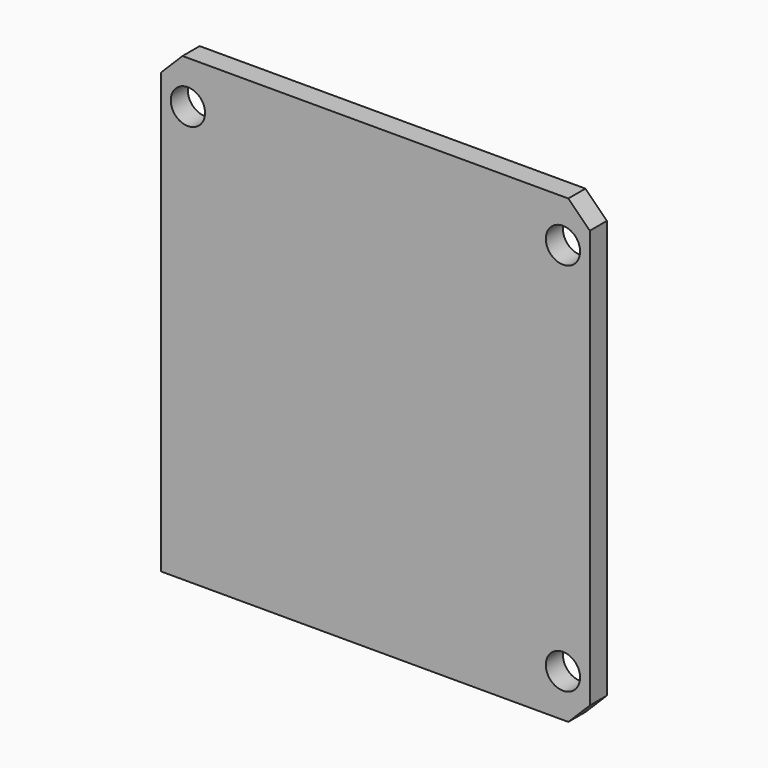
from build123d import *

# Parameters (mm, degrees)
CYLINDER005_R     = 1.6
CYLINDER005_DEPTH = 10
CYLINDER003_R     = 1.6
CYLINDER003_DEPTH = 10
CYLINDER004_R     = 1.6
CYLINDER004_DEPTH = 10
BOX_W             = 40
BOX_H             = 2
BOX_DEPTH         = 43
CHAMFER011_SIZE   = 2


with BuildPart() as cylinder005:
    # Cylinder005 → Cylinder005 (new body)
    with BuildSketch(Plane(origin=(37.5, 2, 39), x_dir=(1, 0, 0), z_dir=(0, -1, 0))):
        Circle(CYLINDER005_R)
    extrude(amount=CYLINDER005_DEPTH)


with BuildPart() as cylinder003:
    # Cylinder003 → Cylinder003 (new body)
    with BuildSketch(Plane(origin=(37.5, 2, 4), x_dir=(1, 0, 0), z_dir=(0, -1, 0))):
        Circle(CYLINDER003_R)
    extrude(amount=CYLINDER003_DEPTH)


with BuildPart() as fusion012:
    # Cylinder004 → Cylinder004 (new body)
    with BuildSketch(Plane(origin=(2.5, 2, 39), x_dir=(1, 0, 0), z_dir=(0, -1, 0))):
        Circle(CYLINDER004_R)
    extrude(amount=CYLINDER004_DEPTH)

    # Fusion012: union Cylinder005, Cylinder003
    add(cylinder005.part)
    add(cylinder003.part)


with BuildPart() as chamfer011:
    # Box → Box (new body)
    with BuildSketch(Plane.XY):
        with Locations((20, 1)):
            Rectangle(BOX_W, BOX_H)
    extrude(amount=BOX_DEPTH)

    # Cut002003004006010: cut Fusion012
    add(fusion012.part, mode=Mode.SUBTRACT)

    # Chamfer011
    chamfer011_edges = [chamfer011.edges().sort_by_distance(p)[0] for p in [
        (0, 1, 43),
        (40, 1, 43),
        (40, 1, 0),
    ]]
    chamfer(chamfer011_edges, length=CHAMFER011_SIZE)


solid = chamfer011.part
